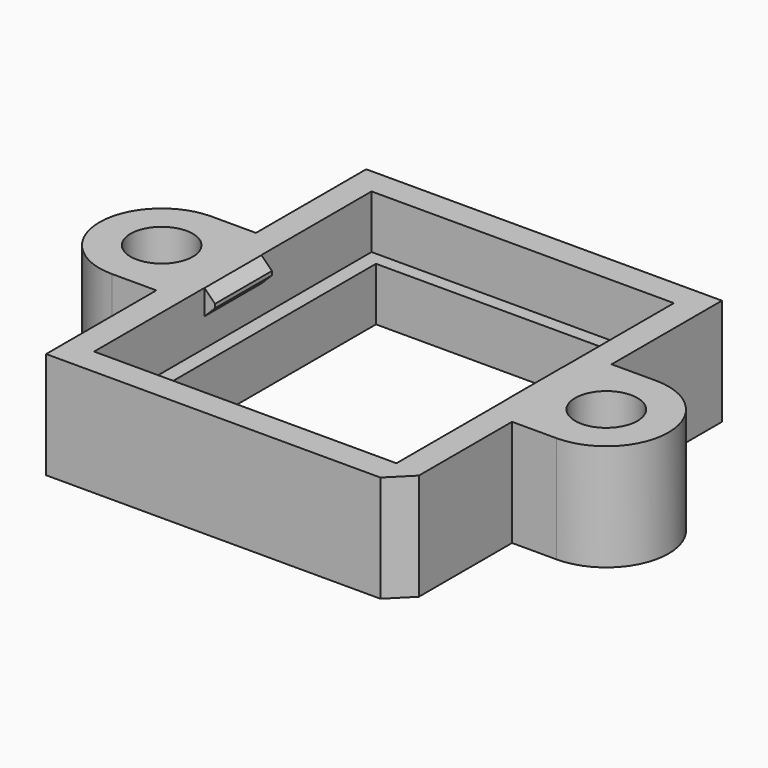
from build123d import *

# Parameters (mm, degrees)
SKETCH_R        = 1.75
SKETCH_W        = 15.3
SKETCH_H        = 18
PAD_DEPTH       = 6
SKETCH001_W     = 17
SKETCH001_H     = 19.5
POCKET_DEPTH    = 3
SKETCH002_W     = 0.6
SKETCH002_H     = 4
PAD001_DEPTH    = 1.4
CHAMFER_SIZE    = 0.59
CHAMFER001_SIZE = 1.2


with BuildPart() as part:
    # Sketch → Pad (new body)
    with BuildSketch(Plane.XY):
        with BuildLine():
            Line((-10, 11.25), (10, 11.25))
            Line((10, 11.25), (10, 3.5))
            Line((12.5, 3.5), (10, 3.5))
            ThreePointArc((12.5, -3.5), (16, 0), (12.5, 3.5))
            Line((10, -3.5), (12.5, -3.5))
            Line((10, -3.5), (10, -11.25))
            Line((10, -11.25), (-10, -11.25))
            Line((-10, -11.25), (-10, -3.5))
            Line((-12.5, -3.5), (-10, -3.5))
            ThreePointArc((-12.5, 3.5), (-16, 0), (-12.5, -3.5))
            Line((-10, 3.5), (-12.5, 3.5))
            Line((-10, 3.5), (-10, 11.25))
        make_face()
        with Locations((-12.5, 0)):
            Circle(SKETCH_R, mode=Mode.SUBTRACT)
        with Locations((12.5, 0)):
            Circle(SKETCH_R, mode=Mode.SUBTRACT)
        Rectangle(SKETCH_W, SKETCH_H, mode=Mode.SUBTRACT)
    extrude(amount=PAD_DEPTH)

    # Sketch001 (on Face20 of Pad) → Pocket (cut)
    with BuildSketch(Plane.XY.offset(6)):
        Rectangle(SKETCH001_W, SKETCH001_H)
    extrude(amount=-POCKET_DEPTH, mode=Mode.SUBTRACT)

    # Sketch002 (on Face5 of Pocket) → Pad001 (join)
    with BuildSketch(Plane.XY.offset(6)):
        with Locations((-8.2, 0)):
            Rectangle(SKETCH002_W, SKETCH002_H)
        with Locations((8.2, 0)):
            Rectangle(SKETCH002_W, SKETCH002_H)
    extrude(amount=-PAD001_DEPTH)

    # Chamfer
    chamfer_edges = [part.edges().sort_by_distance(p)[0] for p in [
        (7.9, 0, 6),
        (7.9, 0, 4.6),
        (-7.9, 0, 6),
        (-7.9, 0, 4.6),
    ]]
    chamfer(chamfer_edges, length=CHAMFER_SIZE)

    # Chamfer001
    chamfer001_edges = [part.edges().sort_by_distance(p)[0] for p in [
        (10, -11.25, 3),
    ]]
    chamfer(chamfer001_edges, length=CHAMFER001_SIZE)


solid = part.part
